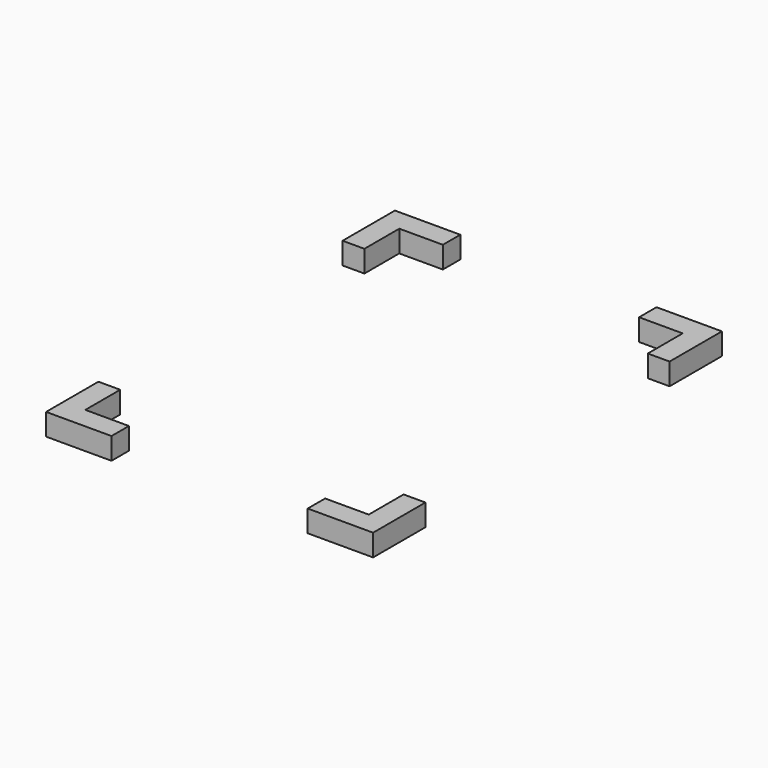
from build123d import *

# Parameters (mm, degrees)
BOX053_W     = 6
BOX053_H     = 2
BOX053_DEPTH = 2
BOX054_W     = 6
BOX054_H     = 2
BOX054_DEPTH = 2
BOX055_W     = 6
BOX055_H     = 2
BOX055_DEPTH = 2
BOX056_W     = 6
BOX056_H     = 2
BOX056_DEPTH = 2
BOX057_W     = 2
BOX057_H     = 6
BOX057_DEPTH = 2
BOX058_W     = 2
BOX058_H     = 6
BOX058_DEPTH = 2
BOX059_W     = 2
BOX059_H     = 6
BOX059_DEPTH = 2
BOX052_W     = 2
BOX052_H     = 6
BOX052_DEPTH = 2


with BuildPart() as cube010:
    # Box053 → Box053 (new body)
    with BuildSketch(Plane.XY.offset(19)):
        with Locations((3, 1)):
            Rectangle(BOX053_W, BOX053_H)
    extrude(amount=BOX053_DEPTH)


with BuildPart() as cube011:
    # Box054 → Box054 (new body)
    with BuildSketch(Plane(origin=(24, 0, 19), x_dir=(1, 0, 0), z_dir=(0, 0, 1))):
        with Locations((3, 1)):
            Rectangle(BOX054_W, BOX054_H)
    extrude(amount=BOX054_DEPTH)


with BuildPart() as cube012:
    # Box055 → Box055 (new body)
    with BuildSketch(Plane(origin=(0, 38, 19), x_dir=(1, 0, 0), z_dir=(0, 0, 1))):
        with Locations((3, 1)):
            Rectangle(BOX055_W, BOX055_H)
    extrude(amount=BOX055_DEPTH)


with BuildPart() as cube013:
    # Box056 → Box056 (new body)
    with BuildSketch(Plane(origin=(24, 38, 19), x_dir=(1, 0, 0), z_dir=(0, 0, 1))):
        with Locations((3, 1)):
            Rectangle(BOX056_W, BOX056_H)
    extrude(amount=BOX056_DEPTH)


with BuildPart() as cube014:
    # Box057 → Box057 (new body)
    with BuildSketch(Plane(origin=(28, 0, 19), x_dir=(1, 0, 0), z_dir=(0, 0, 1))):
        with Locations((1, 3)):
            Rectangle(BOX057_W, BOX057_H)
    extrude(amount=BOX057_DEPTH)


with BuildPart() as cube015:
    # Box058 → Box058 (new body)
    with BuildSketch(Plane(origin=(0, 34, 19), x_dir=(1, 0, 0), z_dir=(0, 0, 1))):
        with Locations((1, 3)):
            Rectangle(BOX058_W, BOX058_H)
    extrude(amount=BOX058_DEPTH)


with BuildPart() as cube016:
    # Box059 → Box059 (new body)
    with BuildSketch(Plane(origin=(28, 34, 19), x_dir=(1, 0, 0), z_dir=(0, 0, 1))):
        with Locations((1, 3)):
            Rectangle(BOX059_W, BOX059_H)
    extrude(amount=BOX059_DEPTH)


with BuildPart() as support_cut:
    # Box052 → Box052 (new body)
    with BuildSketch(Plane.XY.offset(19)):
        with Locations((1, 3)):
            Rectangle(BOX052_W, BOX052_H)
    extrude(amount=BOX052_DEPTH)

    # Fusion013: union Cube010, Cube011, Cube012, Cube013, Cube014, Cube015, Cube016
    add(cube010.part)
    add(cube011.part)
    add(cube012.part)
    add(cube013.part)
    add(cube014.part)
    add(cube015.part)
    add(cube016.part)


solid = support_cut.part
